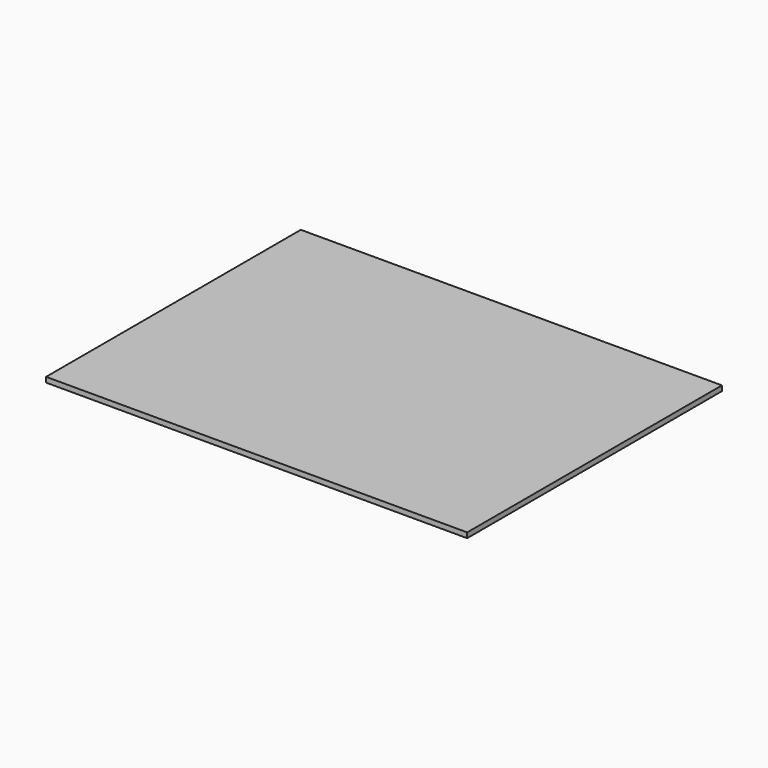
from build123d import *

# Parameters (mm, degrees)
F0_W     = 410
F0_H     = 310
F1_DEPTH = 35
F3_DEPTH = 413
F7_DEPTH = 455


with BuildPart() as f1:
    # F0 (on Top) → F1 (new body)
    with BuildSketch(Plane.XY):
        Rectangle(F0_W, F0_H)
    extrude(amount=F1_DEPTH)


with BuildPart() as f3:
    # F2 (on face) → F3 (new body)
    with BuildSketch(Plane.XZ.offset(155)):
        Polygon((-186.286226, -45.123053), (-150, 0), (-205, 30), (-247.468904, 11.412853), align=None)
    extrude(amount=-F3_DEPTH)


with BuildPart() as f4_1:
    # F4: instance of F3
    add(f3.part.mirror(Plane.YZ))


with BuildPart() as f1_1:
    add(f1.part)

    # F5: cut F3, F4_1
    add(f3.part, mode=Mode.SUBTRACT)
    add(f4_1.part, mode=Mode.SUBTRACT)


with BuildPart() as f7:
    # F6 (on face) → F7 (new body)
    with BuildSketch(Plane(origin=(-205, 0, 0), x_dir=(0, -1, 0), z_dir=(-1, 0, 0))):
        Polygon((-155, -27.468236), (-100, 0), (-155, 30), (-189.205855, 15.520646), align=None)
    extrude(amount=-F7_DEPTH)


with BuildPart() as f8_1:
    # F8: instance of F7
    add(f7.part.mirror(Plane.XZ))


with BuildPart() as f1_2:
    add(f1_1.part)

    # F9: cut F7, F8_1
    add(f7.part, mode=Mode.SUBTRACT)
    add(f8_1.part, mode=Mode.SUBTRACT)


solid = f1_2.part
